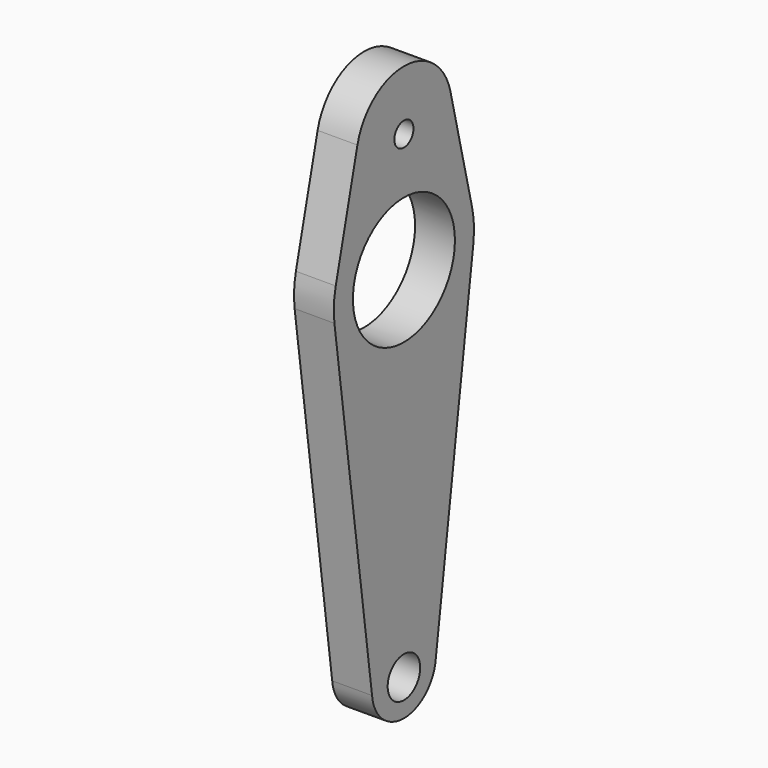
from build123d import *

# Parameters (mm, degrees)
F0_R     = 2.55
F0_R_2   = 8
F0_R_3   = 1.5
F1_DEPTH = 5


with BuildPart() as f1:
    # F0 (on Right) → F1 (new body)
    with BuildSketch(Plane.YZ):
        with BuildLine():
            Line((10.696365, 2.566667), (7.292976, 16.75))
            ThreePointArc((7.292976, 16.75), (0, 22.5), (-7.292976, 16.75))
            Line((-7.292976, 16.75), (-10.696365, 2.566667))
            ThreePointArc((-10.696365, 2.566667), (-10.986044, 0.553925), (-10.900287, -1.477746))
            Line((-10.900287, -1.477746), (-5, -45))
            ThreePointArc((-5, -45), (0, -49.55), (5, -45))
            Line((5, -45), (10.900287, -1.477746))
            ThreePointArc((10.900287, -1.477746), (10.986044, 0.553925), (10.696365, 2.566667))
        make_face()
        with Locations((0, -45)):
            Circle(F0_R, mode=Mode.SUBTRACT)
        Circle(F0_R_2, mode=Mode.SUBTRACT)
        with Locations((0, 15)):
            Circle(F0_R_3, mode=Mode.SUBTRACT)
    extrude(amount=F1_DEPTH)


solid = f1.part
